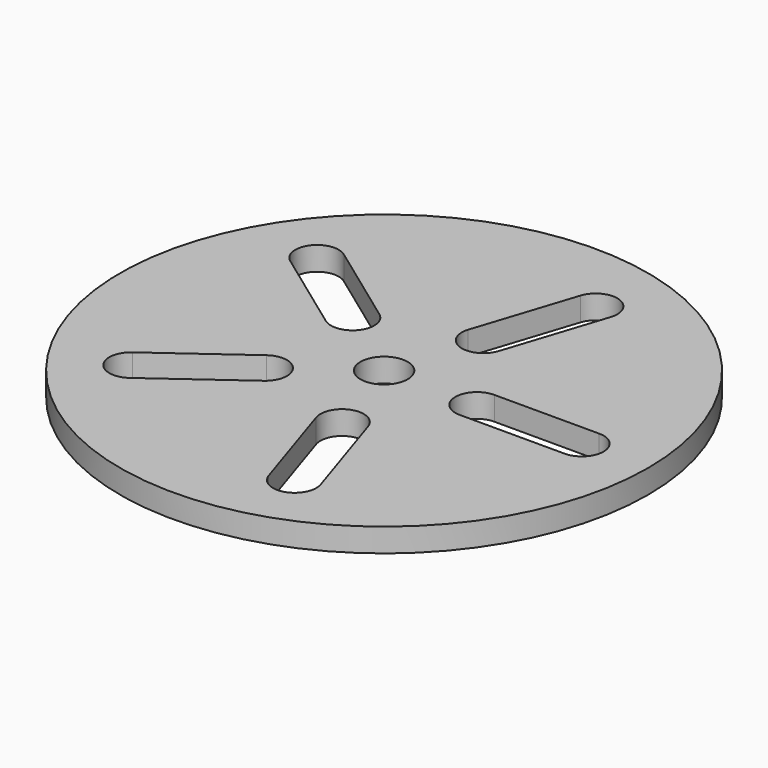
from build123d import *

# Parameters (mm, degrees)
F0_R     = 33.542405
F0_R_2   = 3
F1_DEPTH = 3


with BuildPart() as f1:
    # F0 (on Top) → F1 (new body)
    with BuildSketch(Plane.XY):
        with Locations((37.5, 37.5)):
            Circle(F0_R)
        with BuildLine():
            ThreePointArc((18.779471, 20.496946), (14.93532, 21.1058), (15.544173, 24.949951))
            Line((15.544173, 24.949951), (26.331132, 32.787135))
            ThreePointArc((26.331132, 32.787135), (30.175283, 32.178281), (29.566429, 28.33413))
            Line((29.566429, 28.33413), (18.779471, 20.496946))
        make_face(mode=Mode.SUBTRACT)
        with BuildLine():
            ThreePointArc((47.885903, 14.441486), (46.118941, 10.973627), (42.651082, 12.74059))
            Line((42.651082, 12.74059), (38.530831, 25.42142))
            ThreePointArc((38.530831, 25.42142), (40.297793, 28.889278), (43.765652, 27.122316))
            Line((43.765652, 27.122316), (47.885903, 14.441486))
        make_face(mode=Mode.SUBTRACT)
        with BuildLine():
            ThreePointArc((49.305957, 34.747892), (46.553848, 37.5), (49.305957, 40.252108))
            Line((49.305957, 40.252108), (62.639371, 40.252108))
            ThreePointArc((62.639371, 40.252108), (65.391479, 37.5), (62.639371, 34.747892))
            Line((62.639371, 34.747892), (49.305957, 34.747892))
        make_face(mode=Mode.SUBTRACT)
        with BuildLine():
            ThreePointArc((15.544173, 50.050049), (14.93532, 53.8942), (18.779471, 54.503054))
            Line((18.779471, 54.503054), (29.566429, 46.66587))
            ThreePointArc((29.566429, 46.66587), (30.175283, 42.821719), (26.331132, 42.212865))
            Line((26.331132, 42.212865), (15.544173, 50.050049))
        make_face(mode=Mode.SUBTRACT)
        with Locations((37.5, 37.5)):
            Circle(F0_R_2, mode=Mode.SUBTRACT)
        with BuildLine():
            ThreePointArc((42.651082, 62.25941), (46.118941, 64.026373), (47.885903, 60.558514))
            Line((47.885903, 60.558514), (43.765652, 47.877684))
            ThreePointArc((43.765652, 47.877684), (40.297793, 46.110722), (38.530831, 49.57858))
            Line((38.530831, 49.57858), (42.651082, 62.25941))
        make_face(mode=Mode.SUBTRACT)
    extrude(amount=F1_DEPTH)


solid = f1.part
